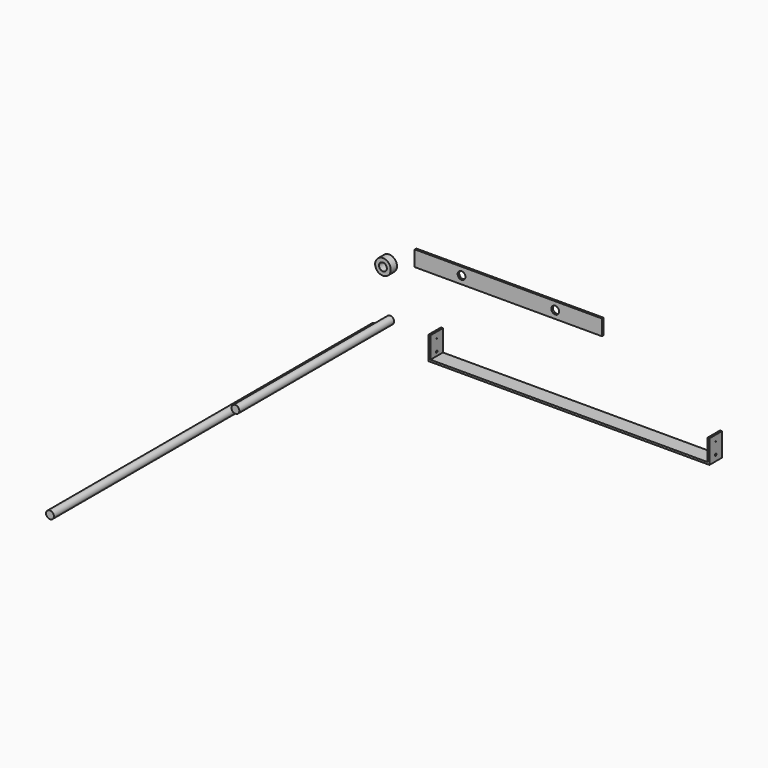
from build123d import *

# Parameters (mm, degrees)
F1_DEPTH  = 25.4
F2_R      = 1.5875
F2_R_2    = 0.777875
F3_DEPTH  = 457.201
F0_W      = 304.8
F0_H      = 25.4
F4_DEPTH  = 3.175
F0_R      = 12.7
F0_R_2    = 6.35
F5_DEPTH  = 12.7
F6_DEPTH  = 314.96
F8_R      = 6.35
F9_DEPTH  = 3.176
F10_DEPTH = 660.40508


with BuildPart() as f1:
    # F0 (on Front) → F1 (new body)
    with BuildSketch(Plane.XZ):
        Polygon((48.163591, -26.258205), (44.988591, -26.258205), (44.988591, -64.358205), (502.188591, -64.358205), (502.188591, -26.258205), (499.013591, -26.258205), (499.013591, -61.183205), (48.163591, -61.183205), align=None)
    extrude(amount=F1_DEPTH)

    # F2 (on face) → F3 (cut, through all)
    with BuildSketch(Plane(origin=(44.988591, 0, 0), x_dir=(0, -1, 0), z_dir=(-1, 0, 0))):
        with Locations((12.7, -54.833205)):
            Circle(F2_R)
        with Locations((12.7, -35.783205)):
            Circle(F2_R_2)
    extrude(amount=-F3_DEPTH, mode=Mode.SUBTRACT)


with BuildPart() as f4:
    # F0 (on Front) → F4 (new body)
    with BuildSketch(Plane.XZ):
        with Locations((157.147311, 61.020774)):
            Rectangle(F0_W, F0_H)
    extrude(amount=F4_DEPTH)

    # F8 (on face) → F9 (cut, through all)
    with BuildSketch(Plane.XZ.offset(3.175)):
        with Locations((233.347311, 61.020774)):
            Circle(F8_R)
        with Locations((80.947311, 61.020774)):
            Circle(F8_R)
    extrude(amount=-F9_DEPTH, mode=Mode.SUBTRACT)


with BuildPart() as f5:
    # F0 (on Front) → F5 (new body)
    with BuildSketch(Plane.XZ):
        with Locations((-39.3348, 38.147982)):
            Circle(F0_R)
        with Locations((-39.3348, 38.147982)):
            Circle(F0_R_2, mode=Mode.SUBTRACT)
    extrude(amount=F5_DEPTH)


with BuildPart() as f6:
    # F0 (on Front) → F6 (new body)
    with BuildSketch(Plane.XZ):
        with Locations((-37.639335, -42.556185)):
            Circle(F0_R_2)
    extrude(amount=F6_DEPTH)


with BuildPart() as f10:
    # F0 (on Front) → F10 (new body)
    with BuildSketch(Plane.XZ):
        with Locations((-63.09174, -61.529472)):
            Circle(F0_R_2)
    extrude(amount=F10_DEPTH)


solid = Compound([f1.part, f4.part, f5.part, f6.part, f10.part])
